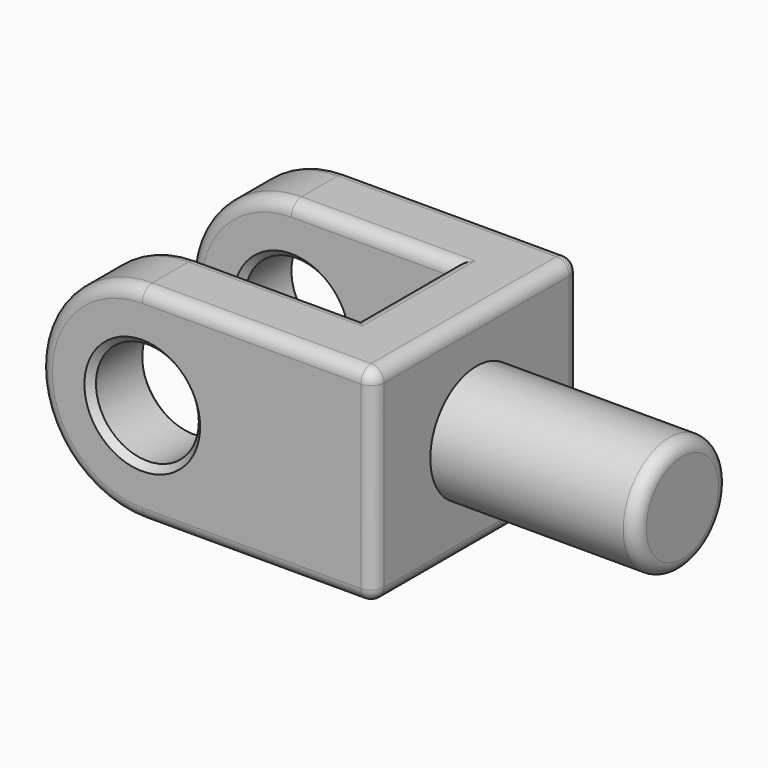
from build123d import *

# Parameters (mm, degrees)
F0_R     = 8
F0_W     = 11
F0_H     = 32
F1_DEPTH = 11
F2_DEPTH = 9
F4_R     = 9
F5_DEPTH = 32
F6_SIZE  = 1
F7_R     = 2


with BuildPart() as f1:
    # F0 (on Front) → F1 (new body)
    with BuildSketch(Plane.XZ):
        with BuildLine():
            Line((-36, 0), (-11, 0))
            Line((-11, 0), (-11, 32))
            Line((-11, 32), (-36, 32))
            ThreePointArc((-36, 32), (-52, 16), (-36, 0))
        make_face()
        with Locations((-36, 16)):
            Circle(F0_R, mode=Mode.SUBTRACT)
        with Locations((-5.5, 16)):
            Rectangle(F0_W, F0_H)
    extrude(amount=F1_DEPTH)

    # F0 (on Front) → F2 (join)
    with BuildSketch(Plane.XZ):
        with Locations((-5.5, 16)):
            Rectangle(F0_W, F0_H)
    extrude(amount=-F2_DEPTH)

    # F3: F1 across face


with BuildPart() as f1_1:
    add(f1.part)
    add(f1.part.mirror(Plane(origin=(-5.5, 9, 16), x_dir=(1, 0, 0), z_dir=(0, 1, 0))))

    # F4 (on face) → F5 (join)
    with BuildSketch(Plane.YZ):
        with Locations((9, 16)):
            Circle(F4_R)
    extrude(amount=F5_DEPTH)

    # F6
    f6_edges = [f1_1.edges().sort_by_distance(p)[0] for p in [
        (-28, -5.5, 16),
        (-44, 0, 16),
        (-44, -11, 16),
        (-28, 23.5, 16),
        (-44, 18, 16),
        (-44, 29, 16),
    ]]
    chamfer(f6_edges, length=F6_SIZE)

    # F7
    f7_edges = [f1_1.edges().sort_by_distance(p)[0] for p in [
        (-18, -11, 32),
        (-36, -5.5, 32),
        (-23.5, 0, 32),
        (-11, 9, 32),
        (-23.5, 18, 32),
        (-36, 23.5, 32),
        (-18, 29, 32),
        (0, 9, 32),
        (-36, -5.5, 0),
        (-18, -11, 0),
        (0, 9, 0),
        (-18, 29, 0),
        (-36, 23.5, 0),
        (-23.5, 18, 0),
        (-11, 9, 0),
        (-23.5, 0, 0),
        (32, 0, 16),
        (0, 29, 16),
        (0, -11, 16),
    ]]
    fillet(f7_edges, radius=F7_R)


solid = f1_1.part
